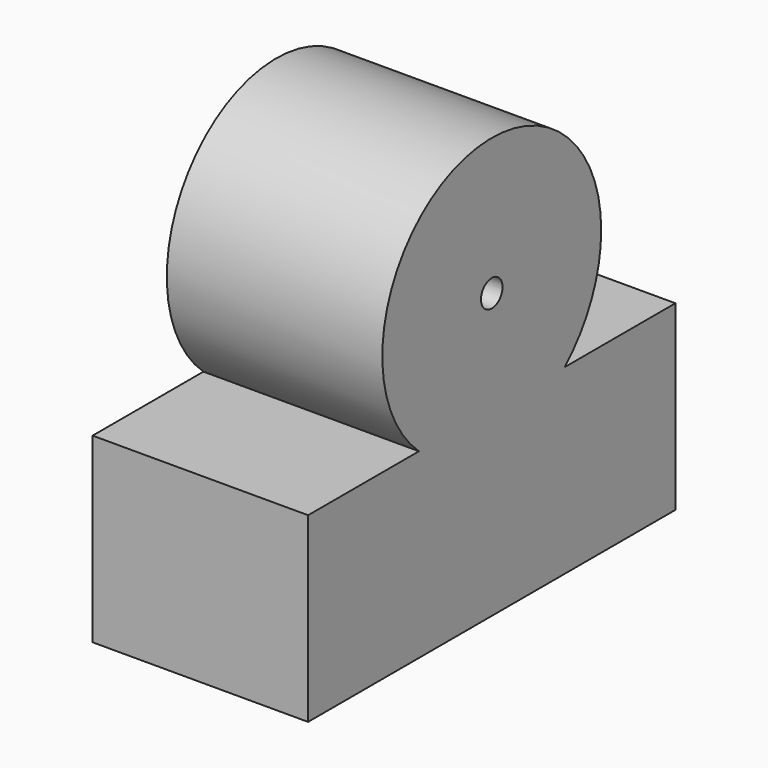
from build123d import *

# Parameters (mm, degrees)
F1_DEPTH = 12.7
F2_DEPTH = 25.4
F4_D     = 6.35


with BuildPart() as f1:
    # F0 (on Right) → F1 (new body, symmetric)
    with BuildSketch(Plane.YZ):
        with BuildLine():
            Line((-54.1098564863, 21.4459784329), (-54.1098564863, -21.4459784329))
            Line((-54.1098564863, -21.4459784329), (54.1098564863, -21.4459784329))
            Line((54.1098564863, -21.4459784329), (54.1098564863, 21.4459784329))
            Line((54.1098564863, 21.4459784329), (21.4569509104, 21.4459784329))
            ThreePointArc((21.4569509104, 21.4459784329), (0, 13.2705383003), (-21.4569509104, 21.4459784329))
            Line((-21.4569509104, 21.4459784329), (-54.1098564863, 21.4459784329))
        make_face()
    extrude(amount=F1_DEPTH, both=True)

    # F0 (on Right) → F2 (join, symmetric)
    with BuildSketch(Plane.YZ):
        with BuildLine():
            Line((-54.1098564863, 21.4459784329), (-54.1098564863, -21.4459784329))
            Line((-54.1098564863, -21.4459784329), (54.1098564863, -21.4459784329))
            Line((54.1098564863, -21.4459784329), (54.1098564863, 21.4459784329))
            Line((54.1098564863, 21.4459784329), (21.4569509104, 21.4459784329))
            ThreePointArc((21.4569509104, 21.4459784329), (0, 13.2705383003), (-21.4569509104, 21.4459784329))
            Line((-21.4569509104, 21.4459784329), (-54.1098564863, 21.4459784329))
        make_face()
        with BuildLine():
            ThreePointArc((32.2452709079, 45.5158092082), (-13.1884855264, 74.9406515262), (-21.4569509104, 21.4459784329))
            Line((-21.4569509104, 21.4459784329), (21.4569509104, 21.4459784329))
            ThreePointArc((21.4569509104, 21.4459784329), (29.4248423181, 32.3273236818), (32.2452709079, 45.5158092082))
        make_face()
        with BuildLine():
            Line((21.4569509104, 21.4459784329), (-21.4569509104, 21.4459784329))
            ThreePointArc((-21.4569509104, 21.4459784329), (0, 13.2705383003), (21.4569509104, 21.4459784329))
        make_face()
    extrude(amount=F2_DEPTH, both=True)

    # F4 (through all)
    with Locations(Plane.YZ.offset(25.4)):
        with Locations((0, 45.5158092082)):
            Hole(F4_D / 2)


solid = f1.part
